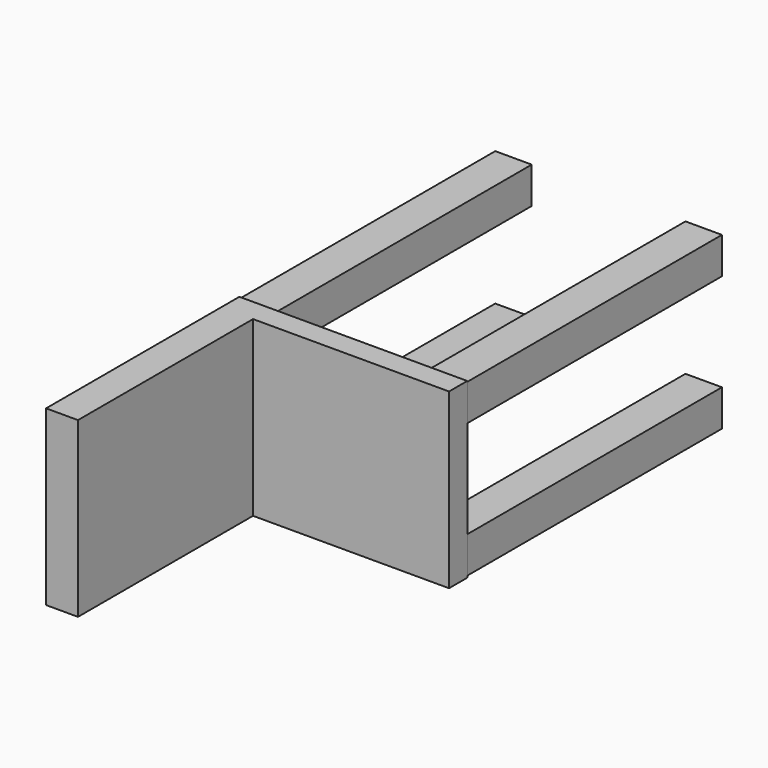
from build123d import *

# Parameters (mm, degrees)
F0_W     = 50
F0_H     = 38
F1_DEPTH = 5
F2_W     = 8
F2_H     = 8
F3_DEPTH = 70
F4_W     = 48
F4_H     = 38
F5_DEPTH = 7


with BuildPart() as f1:
    # F0 (on Front) → F1 (new body)
    with BuildSketch(Plane.XZ):
        Rectangle(F0_W, F0_H)
    extrude(amount=F1_DEPTH)

    # F2 (on Front) → F3 (join)
    with BuildSketch(Plane.XZ):
        with Locations((20.863473, 14.717139)):
            Rectangle(F2_W, F2_H)
        with Locations((20.863473, -14.717139)):
            Rectangle(F2_W, F2_H)
        with Locations((-20.863473, -14.717139)):
            Rectangle(F2_W, F2_H)
        with Locations((-20.863473, 14.717139)):
            Rectangle(F2_W, F2_H)
    extrude(amount=-F3_DEPTH)

    # F4 (on face) → F5 (join)
    with BuildSketch(Plane(origin=(-25, 0, 0), x_dir=(0, -1, 0), z_dir=(-1, 0, 0))):
        with Locations((29, 0)):
            Rectangle(F4_W, F4_H)
    extrude(amount=-F5_DEPTH)


solid = f1.part
